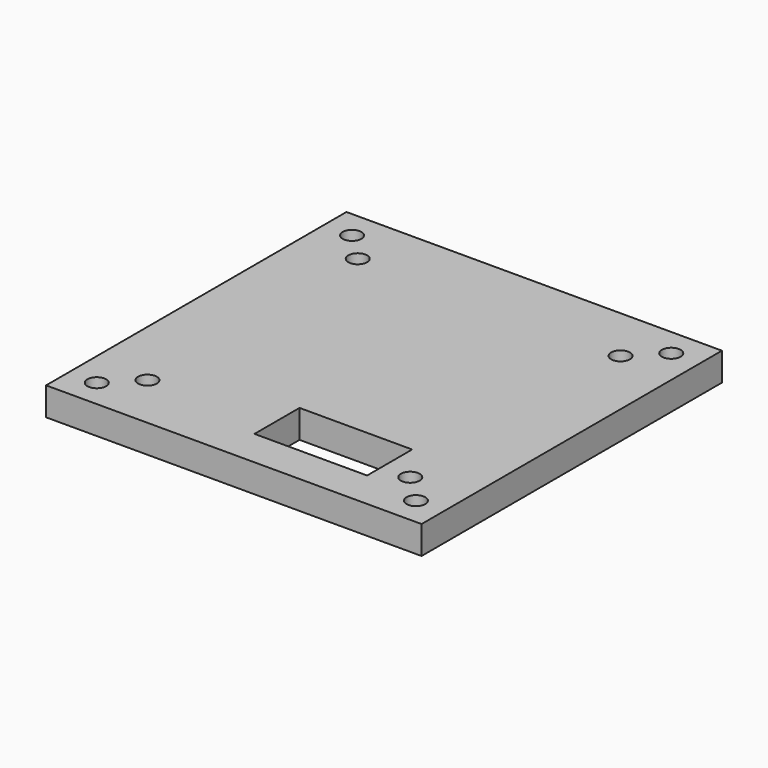
from build123d import *

# Parameters (mm, degrees)
F0_W     = 40
F0_H     = 40
F1_DEPTH = 3
F2_W     = 12
F2_H     = 6
F3_DEPTH = 3
F5_D     = 2
F5_DEPTH = 10


with BuildPart() as f1:
    # F0 (on Top) → F1 (new body)
    with BuildSketch(Plane.XY):
        Rectangle(F0_W, F0_H)
    extrude(amount=-F1_DEPTH)

    # F2 (on face) → F3 (cut)
    with BuildSketch(Plane(origin=(0, 0, -3), x_dir=(1, 0, 0), z_dir=(0, 0, -1))):
        with Locations((5, 13)):
            Rectangle(F2_W, F2_H)
    extrude(amount=-F3_DEPTH, mode=Mode.SUBTRACT)

    # F5
    with Locations(Plane.XY):
        with Locations((-17, 17), (17, 17), (14, 14), (-14, 14), (-17, -17), (-14, -14), (14, -14), (17, -17)):
            Hole(F5_D / 2, depth=F5_DEPTH)


solid = f1.part
